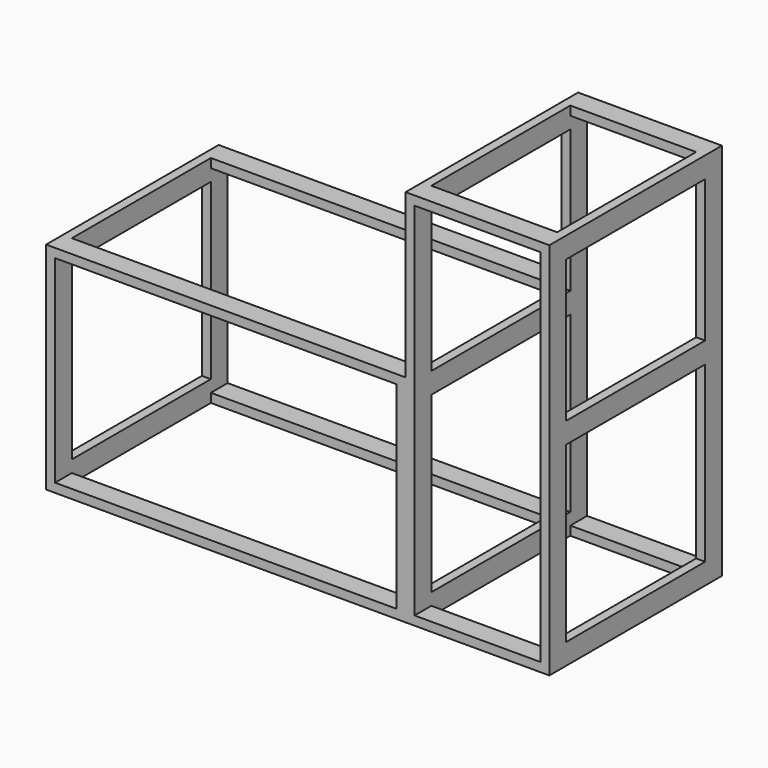
from build123d import *

# Parameters (mm, degrees)
F0_W      = 1524
F0_H      = 914.4
F1_DEPTH  = 457.2
F2_W      = 736.6
F2_H      = 736.6
F3_DEPTH  = 2133.6
F4_W      = 1447.8
F4_H      = 838.2
F4_W_2    = 533.4
F4_H_2    = 1529.586154
F5_DEPTH  = 914.4
F6_W      = 736.6
F6_H      = 602.486154
F7_DEPTH  = 609.6
F8_W      = 1485.9
F8_H      = 736.6
F9_DEPTH  = 914.4
F10_DEPTH = 914.4
F11_W     = 533.4
F11_H     = 736.6
F12_DEPTH = 1605.786154


with BuildPart() as f1:
    # F0 (on Front) → F1 (new body, symmetric)
    with BuildSketch(Plane.XZ):
        Rectangle(F0_W, F0_H)
        Polygon((762, 1148.586154), (762, 457.2), (762, -457.2), (1371.6, -457.2), (1371.6, 1148.586154), align=None)
    extrude(amount=F1_DEPTH, both=True)

    # F2 (on face) → F3 (cut, through all)
    with BuildSketch(Plane(origin=(-762, 0, 0), x_dir=(0, -1, 0), z_dir=(-1, 0, 0))):
        Rectangle(F2_W, F2_H)
    extrude(amount=-F3_DEPTH, mode=Mode.SUBTRACT)

    # F4 (on face) → F5 (cut, through all)
    with BuildSketch(Plane.XZ.offset(457.2)):
        Rectangle(F4_W, F4_H)
        with Locations((1066.8, 345.693077)):
            Rectangle(F4_W_2, F4_H_2)
    extrude(amount=-F5_DEPTH, mode=Mode.SUBTRACT)

    # F6 (on face) → F7 (cut, through all)
    with BuildSketch(Plane(origin=(762, 0, 0), x_dir=(0, -1, 0), z_dir=(-1, 0, 0))):
        with Locations((0, 758.443077)):
            Rectangle(F6_W, F6_H)
    extrude(amount=-F7_DEPTH, mode=Mode.SUBTRACT)

    # F8 (on face) → F9 (cut, through all)
    with BuildSketch(Plane.XY.offset(457.2)):
        with Locations((19.05, 0)):
            Rectangle(F8_W, F8_H)
    extrude(amount=-F9_DEPTH, mode=Mode.SUBTRACT)

    # F8 (on face) → F10 (cut, through all)
    with BuildSketch(Plane.XY.offset(457.2)):
        with Locations((19.05, 0)):
            Rectangle(F8_W, F8_H)
    extrude(amount=-F10_DEPTH, mode=Mode.SUBTRACT)

    # F11 (on face) → F12 (cut, through all)
    with BuildSketch(Plane(origin=(0, 0, -457.2), x_dir=(1, 0, 0), z_dir=(0, 0, -1))):
        with Locations((1066.8, 0)):
            Rectangle(F11_W, F11_H)
    extrude(amount=-F12_DEPTH, mode=Mode.SUBTRACT)


solid = f1.part
